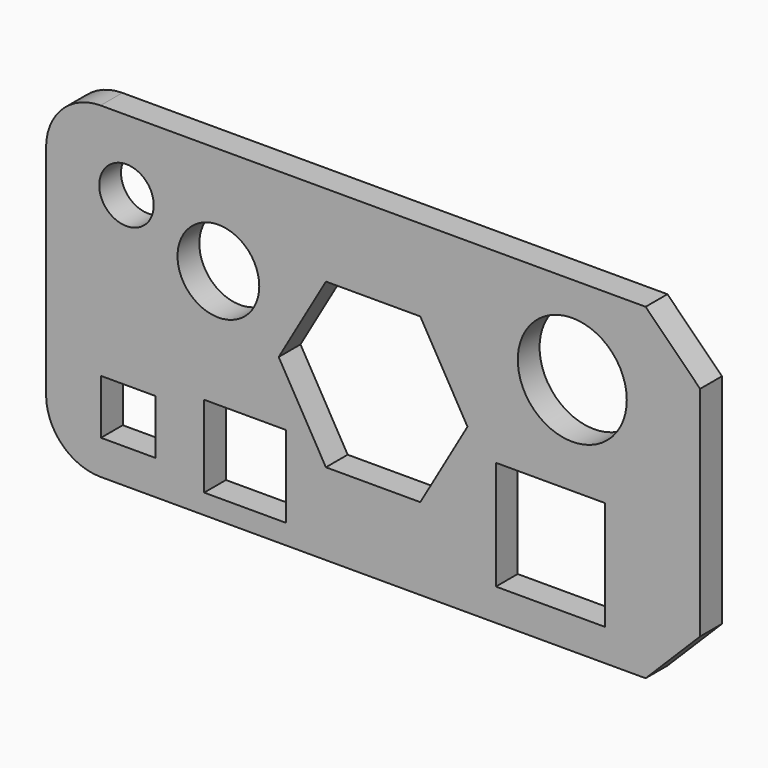
from build123d import *

# Parameters (mm, degrees)
F0_W     = 76.2
F0_H     = 38.1
F0_W_2   = 6.35
F0_H_2   = 6.35
F0_W_3   = 9.525
F0_H_3   = 9.525
F0_W_4   = 12.7
F0_H_4   = 12.7
F0_R     = 4.7625
F0_R_2   = 3.175
F0_R_3   = 6.35
F1_DEPTH = 1.5875
F2_R     = 6.35
F3_SIZE  = 6.35


with BuildPart() as f1:
    # F0 (on Front) → F1 (new body, symmetric)
    with BuildSketch(Plane.XZ):
        Rectangle(F0_W, F0_H)
        with Locations((-28.530458, -11.846916)):
            Rectangle(F0_W_2, F0_H_2, mode=Mode.SUBTRACT)
        with Locations((-14.919388, -11.971785)):
            Rectangle(F0_W_3, F0_H_3, mode=Mode.SUBTRACT)
        with Locations((20.656448, -8.97043)):
            Rectangle(F0_W_4, F0_H_4, mode=Mode.SUBTRACT)
        with Locations((-18.023899, 6.521787)):
            Circle(F0_R, mode=Mode.SUBTRACT)
        with Locations((-28.73469, 10.823162)):
            Circle(F0_R_2, mode=Mode.SUBTRACT)
        Polygon((-10.998523, 0), (-5.499261, 9.525), (5.499261, 9.525), (10.998523, 0), (5.499261, -9.525), (-5.499261, -9.525), align=None, mode=Mode.SUBTRACT)
        with Locations((23.2064, 8.776863)):
            Circle(F0_R_3, mode=Mode.SUBTRACT)
    extrude(amount=F1_DEPTH, both=True)

    # F2
    f2_edges = [f1.edges().sort_by_distance(p)[0] for p in [
        (-38.1, 0, 19.05),
        (-38.1, 0, -19.05),
    ]]
    fillet(f2_edges, radius=F2_R)

    # F3
    f3_edges = [f1.edges().sort_by_distance(p)[0] for p in [
        (38.1, 0, 19.05),
        (38.1, 0, -19.05),
    ]]
    chamfer(f3_edges, length=F3_SIZE)


solid = f1.part
